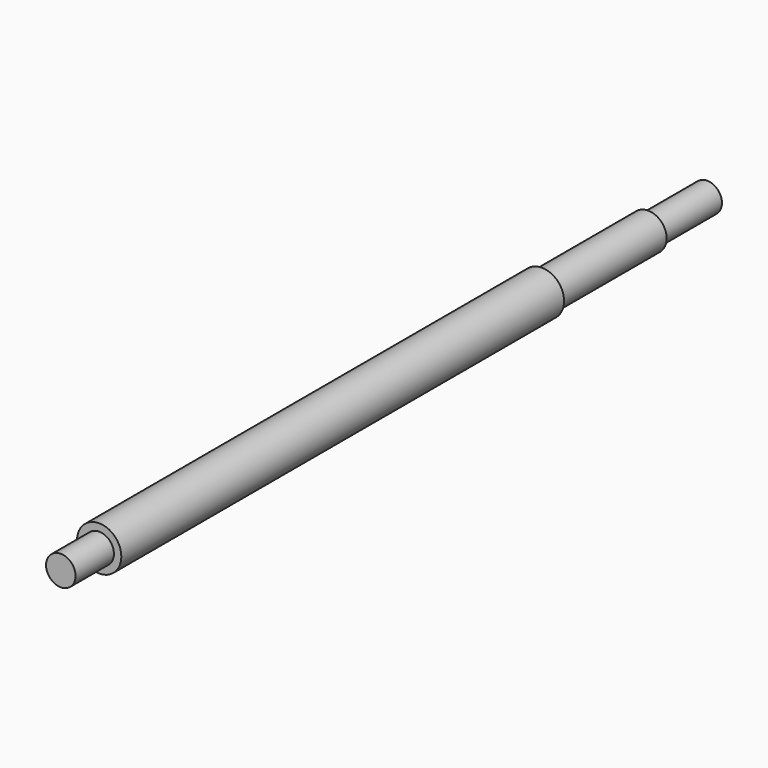
from build123d import *

# Parameters (mm, degrees)
F0_R     = 6
F1_DEPTH = 150
F2_R     = 5
F3_DEPTH = 36
F4_R     = 4
F5_DEPTH = 20
F6_R     = 4
F7_DEPTH = 13


with BuildPart() as f1:
    # F0 (on Front) → F1 (new body)
    with BuildSketch(Plane.XZ):
        Circle(F0_R)
    extrude(amount=F1_DEPTH)

    # F2 (on face) → F3 (join)
    with BuildSketch(Plane(origin=(0, 0, 0), x_dir=(-1, 0, 0), z_dir=(0, 1, 0))):
        Circle(F2_R)
    extrude(amount=F3_DEPTH)

    # F4 (on face) → F5 (join)
    with BuildSketch(Plane(origin=(0, 36, 0), x_dir=(-1, 0, 0), z_dir=(0, 1, 0))):
        Circle(F4_R)
    extrude(amount=F5_DEPTH)

    # F6 (on face) → F7 (join)
    with BuildSketch(Plane.XZ.offset(150)):
        Circle(F6_R)
    extrude(amount=F7_DEPTH)


solid = f1.part
